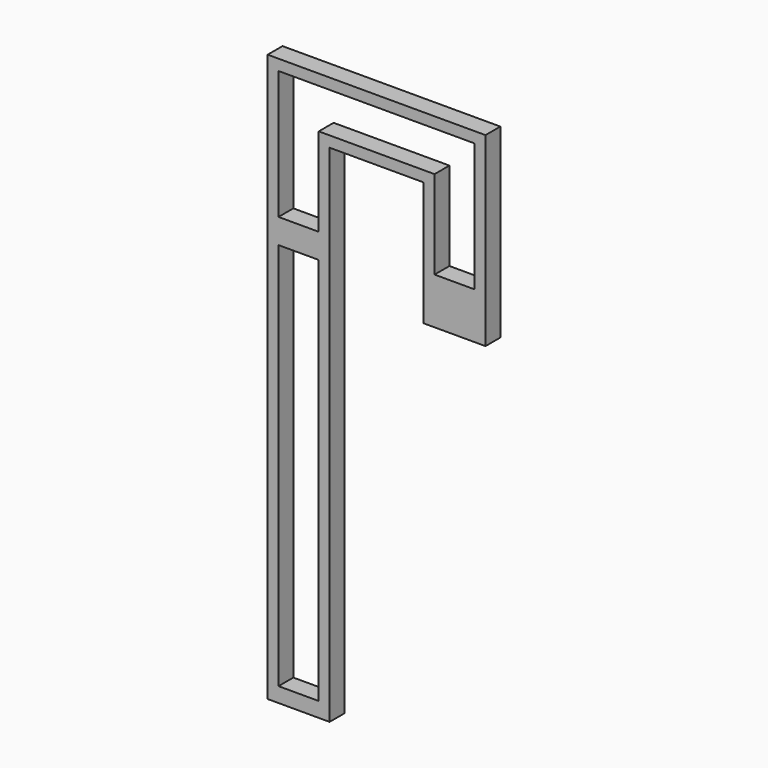
from build123d import *

# Parameters (mm, degrees)
F0_W     = 13
F0_H     = 125.402425
F1_DEPTH = 6


with BuildPart() as f1:
    # F0 (on Front) → F1 (new body)
    with BuildSketch(Plane.XZ):
        Polygon((60.391705, 30.000078), (60.391705, 90.000078), (-9.955426, 90.000078), (-9.955426, -93.209804), (10.044574, -93.209804), (10.044574, 70.060078), (40.444729, 70.060078), (40.444729, 30.000078), align=None)
        with Locations((0.044574, -25.701134)):
            Rectangle(F0_W, F0_H, mode=Mode.SUBTRACT)
        Polygon((6.544574, 45.000078), (-6.455426, 45.000078), (-6.455426, 73.97807), (-6.455426, 86.500078), (56.891705, 86.500078), (56.891705, 73.97807), (56.891705, 45.000078), (43.944729, 45.000078), (43.944729, 73.560078), (6.544574, 73.560078), align=None, mode=Mode.SUBTRACT)
    extrude(amount=F1_DEPTH)


solid = f1.part
